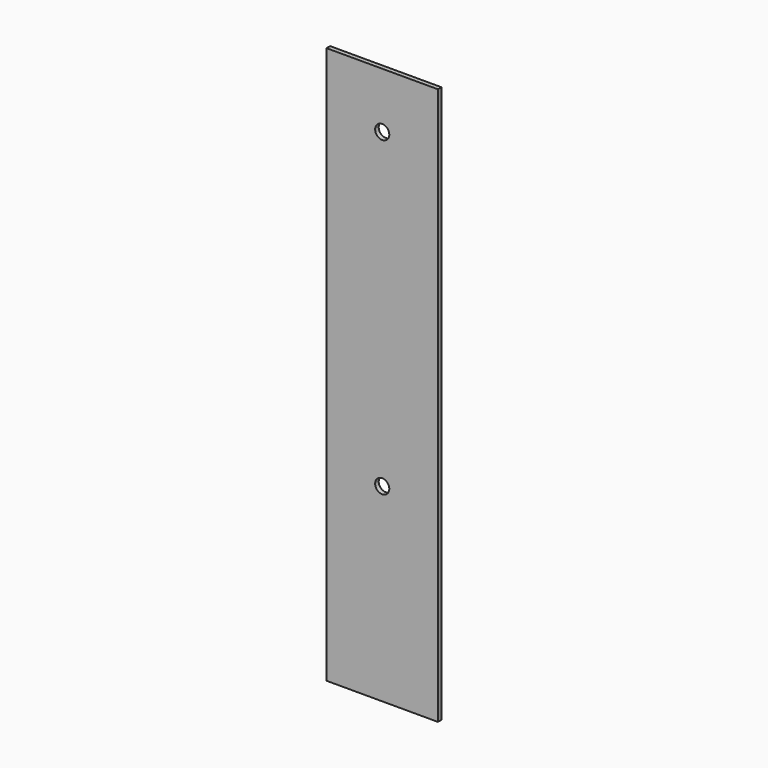
from build123d import *

# Parameters (mm, degrees)
F0_W     = 50
F0_H     = 250
F0_R     = 3.175
F1_DEPTH = 1


with BuildPart() as f1:
    # F0 (on Front) → F1 (new body, symmetric)
    with BuildSketch(Plane.XZ):
        Rectangle(F0_W, F0_H)
        with Locations((0, -40)):
            Circle(F0_R, mode=Mode.SUBTRACT)
        with Locations((0, 100)):
            Circle(F0_R, mode=Mode.SUBTRACT)
    extrude(amount=F1_DEPTH, both=True)


solid = f1.part
